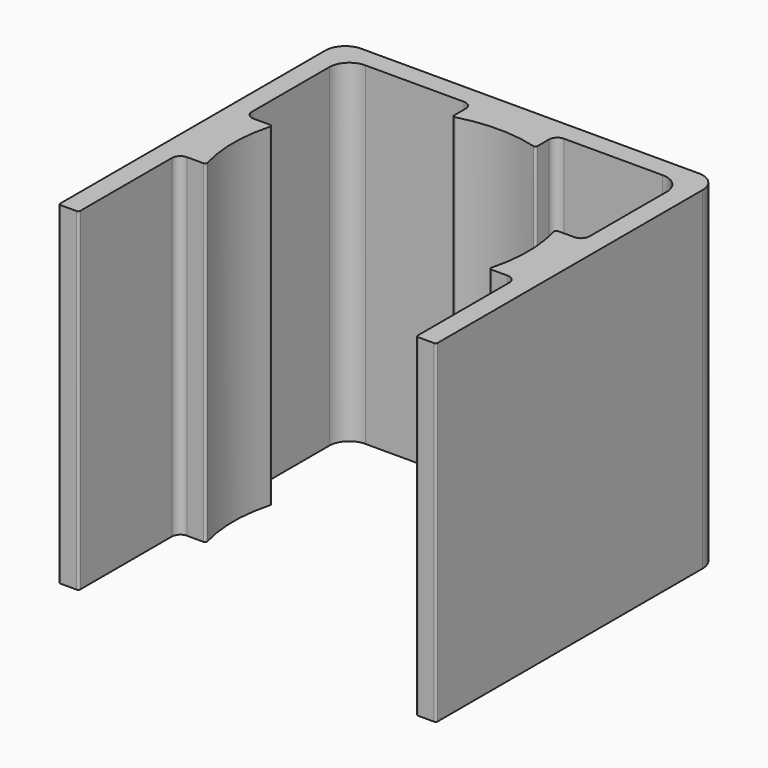
from build123d import *

# Parameters (mm, degrees)
F1_DEPTH = 20


with BuildPart() as f1:
    # F0 (on Top) → F1 (new body)
    with BuildSketch(Plane.XY):
        with BuildLine():
            Line((-3.943679, 11.586344), (-3.943679, -8.288656))
            ThreePointArc((-3.943679, -8.288656), (-3.907067, -8.377044), (-3.818679, -8.413656))
            Line((-3.818679, -8.413656), (-2.868679, -8.413656))
            ThreePointArc((-2.868679, -8.413656), (-2.780291, -8.377044), (-2.743679, -8.288656))
            Line((-2.743679, -8.288656), (-2.743679, -1.413656))
            ThreePointArc((-2.743679, -1.413656), (-2.597232, -1.060103), (-2.243679, -0.913656))
            Line((-2.243679, -0.913656), (-1.25926, -0.913656))
            ThreePointArc((-1.25926, -0.913656), (-1.159846, -0.864432), (-1.13873, -0.755527))
            ThreePointArc((-1.13873, -0.755527), (-1.45472, 1.586344), (-1.13873, 3.928214))
            ThreePointArc((-1.13873, 3.928214), (-1.159846, 4.037119), (-1.25926, 4.086344))
            Line((-1.25926, 4.086344), (-2.243679, 4.086344))
            ThreePointArc((-2.243679, 4.086344), (-2.597232, 4.23279), (-2.743679, 4.586344))
            Line((-2.743679, 4.586344), (-2.743679, 10.386344))
            ThreePointArc((-2.743679, 10.386344), (-2.392207, 11.234872), (-1.543679, 11.586344))
            Line((-1.543679, 11.586344), (4.381321, 11.586344))
            ThreePointArc((4.381321, 11.586344), (4.734874, 11.439897), (4.881321, 11.086344))
            Line((4.881321, 11.086344), (4.881321, 10.226925))
            ThreePointArc((4.881321, 10.226925), (4.930546, 10.127511), (5.03945, 10.106395))
            ThreePointArc((5.03945, 10.106395), (7.381321, 10.422385), (9.723191, 10.106395))
            ThreePointArc((9.723191, 10.106395), (9.832096, 10.127511), (9.881321, 10.226925))
            Line((9.881321, 10.226925), (9.881321, 11.086344))
            ThreePointArc((9.881321, 11.086344), (10.027768, 11.439897), (10.381321, 11.586344))
            Line((10.381321, 11.586344), (16.306321, 11.586344))
            ThreePointArc((16.306321, 11.586344), (17.154849, 11.234872), (17.506321, 10.386344))
            Line((17.506321, 10.386344), (17.506321, 4.586344))
            ThreePointArc((17.506321, 4.586344), (17.359874, 4.23279), (17.006321, 4.086344))
            Line((17.006321, 4.086344), (16.021902, 4.086344))
            ThreePointArc((16.021902, 4.086344), (15.922488, 4.037119), (15.901372, 3.928214))
            ThreePointArc((15.901372, 3.928214), (16.217362, 1.586344), (15.901372, -0.755527))
            ThreePointArc((15.901372, -0.755527), (15.922488, -0.864432), (16.021902, -0.913656))
            Line((16.021902, -0.913656), (17.006321, -0.913656))
            ThreePointArc((17.006321, -0.913656), (17.359874, -1.060103), (17.506321, -1.413656))
            Line((17.506321, -1.413656), (17.506321, -8.288656))
            ThreePointArc((17.506321, -8.288656), (17.542933, -8.377044), (17.631321, -8.413656))
            Line((17.631321, -8.413656), (18.581321, -8.413656))
            ThreePointArc((18.581321, -8.413656), (18.669709, -8.377044), (18.706321, -8.288656))
            Line((18.706321, -8.288656), (18.706321, 11.586344))
            ThreePointArc((18.706321, 11.586344), (18.354849, 12.434872), (17.506321, 12.786344))
            Line((17.506321, 12.786344), (-2.743679, 12.786344))
            ThreePointArc((-2.743679, 12.786344), (-3.592207, 12.434872), (-3.943679, 11.586344))
        make_face()
    extrude(amount=F1_DEPTH)


solid = f1.part
